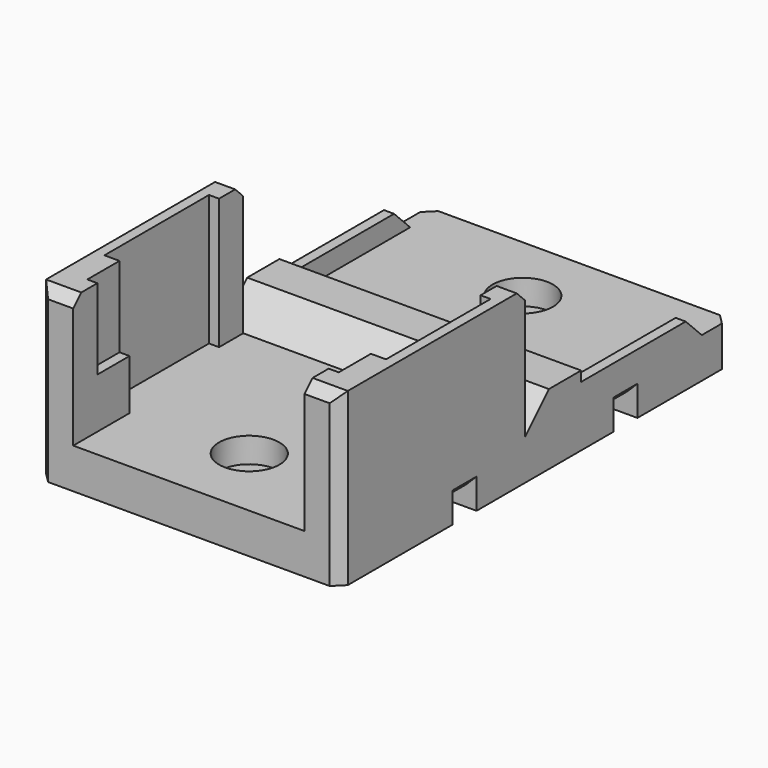
from build123d import *

# Parameters (mm, degrees)
BOX012_W          = 36
BOX012_H          = 3
BOX012_DEPTH      = 2
BOX011_W          = 36
BOX011_H          = 3
BOX011_DEPTH      = 2
BOX015_W          = 1
BOX015_H          = 15
BOX015_DEPTH      = 6
CHAMFER003_SIZE   = 2
BOX013_W          = 30
BOX013_H          = 7
BOX013_DEPTH      = 7
CHAMFER002_SIZE   = 3
CYLINDER004_R     = 3
CYLINDER004_DEPTH = 2.5
CYLINDER006_R     = 1.65
CYLINDER006_DEPTH = 10
CYLINDER007_R     = 1.65
CYLINDER007_DEPTH = 10
CYLINDER005_R     = 3
CYLINDER005_DEPTH = 2.5
BOX_W             = 30
BOX_H             = 48.5
BOX_DEPTH         = 4
BOX006_W          = 1
BOX006_H          = 13
BOX006_DEPTH      = 17
BOX008_W          = 2
BOX008_H          = 3
BOX008_DEPTH      = 17
BOX010_W          = 1
BOX010_H          = 4
BOX010_DEPTH      = 8
BOX004_W          = 3.5
BOX004_H          = 7
BOX004_DEPTH      = 17
BOX005_W          = 1
BOX005_H          = 13
BOX005_DEPTH      = 17
BOX007_W          = 2
BOX007_H          = 3
BOX007_DEPTH      = 17
BOX009_W          = 1
BOX009_H          = 4
BOX009_DEPTH      = 8
BOX003_W          = 3.5
BOX003_H          = 7
BOX003_DEPTH      = 17
BOX014_W          = 1
BOX014_H          = 15
BOX014_DEPTH      = 6
CHAMFER004_SIZE   = 2
CHAMFER005_SIZE   = 1
CHAMFER006_SIZE   = 1


with BuildPart() as cube012:
    # Box012 → Box012 (new body)
    with BuildSketch(Plane(origin=(-3, 9.5, 0), x_dir=(1, 0, 0), z_dir=(0, 0, 1))):
        with Locations((18, 1.5)):
            Rectangle(BOX012_W, BOX012_H)
    extrude(amount=BOX012_DEPTH)


with BuildPart() as fusion003:
    # Box011 → Box011 (new body)
    with BuildSketch(Plane(origin=(-3, -10.5, 0), x_dir=(1, 0, 0), z_dir=(0, 0, 1))):
        with Locations((18, 1.5)):
            Rectangle(BOX011_W, BOX011_H)
    extrude(amount=BOX011_DEPTH)

    # Fusion003: union Cube012
    add(cube012.part)


with BuildPart() as chamfer003:
    # Box015 → Box015 (new body)
    with BuildSketch(Plane(origin=(29, 5.5, 0), x_dir=(1, 0, 0), z_dir=(0, 0, 1))):
        with Locations((0.5, 7.5)):
            Rectangle(BOX015_W, BOX015_H)
    extrude(amount=BOX015_DEPTH)

    # Chamfer003
    chamfer003_edges = [chamfer003.edges().sort_by_distance(p)[0] for p in [
        (29.5, 20.5, 6),
    ]]
    chamfer(chamfer003_edges, length=CHAMFER003_SIZE)


with BuildPart() as chamfer002:
    # Box013 → Box013 (new body)
    with BuildSketch(Plane(origin=(0, -1.5, 0), x_dir=(1, 0, 0), z_dir=(0, 0, 1))):
        with Locations((15, 3.5)):
            Rectangle(BOX013_W, BOX013_H)
    extrude(amount=BOX013_DEPTH)

    # Chamfer002
    chamfer002_edges = [chamfer002.edges().sort_by_distance(p)[0] for p in [
        (15, -1.5, 7),
    ]]
    chamfer(chamfer002_edges, length=CHAMFER002_SIZE)


with BuildPart() as cylinder004:
    # Cylinder004 → Cylinder004 (new body)
    with BuildSketch(Plane(origin=(15, 17, 1.5), x_dir=(1, 0, 0), z_dir=(0, 0, 1))):
        Circle(CYLINDER004_R)
    extrude(amount=CYLINDER004_DEPTH)


with BuildPart() as cylinder006:
    # Cylinder006 → Cylinder006 (new body)
    with BuildSketch(Plane(origin=(15, -17, 0), x_dir=(1, 0, 0), z_dir=(0, 0, 1))):
        Circle(CYLINDER006_R)
    extrude(amount=CYLINDER006_DEPTH)


with BuildPart() as cylinder007:
    # Cylinder007 → Cylinder007 (new body)
    with BuildSketch(Plane(origin=(15, 17, 0), x_dir=(1, 0, 0), z_dir=(0, 0, 1))):
        Circle(CYLINDER007_R)
    extrude(amount=CYLINDER007_DEPTH)


with BuildPart() as fusion002:
    # Cylinder005 → Cylinder005 (new body)
    with BuildSketch(Plane(origin=(15, -17, 1.5), x_dir=(1, 0, 0), z_dir=(0, 0, 1))):
        Circle(CYLINDER005_R)
    extrude(amount=CYLINDER005_DEPTH)

    # Fusion002: union Cylinder004, Cylinder006, Cylinder007
    add(cylinder004.part)
    add(cylinder006.part)
    add(cylinder007.part)


with BuildPart() as cut008:
    # Box → Box (new body)
    with BuildSketch(Plane(origin=(0, -24.5, 0), x_dir=(1, 0, 0), z_dir=(0, 0, 1))):
        with Locations((15, 24.25)):
            Rectangle(BOX_W, BOX_H)
    extrude(amount=BOX_DEPTH)

    # Cut008: cut Fusion002
    add(fusion002.part, mode=Mode.SUBTRACT)


with BuildPart() as cube006:
    # Box006 → Box006 (new body)
    with BuildSketch(Plane(origin=(29, -17.5, 0), x_dir=(1, 0, 0), z_dir=(0, 0, 1))):
        with Locations((0.5, 6.5)):
            Rectangle(BOX006_W, BOX006_H)
    extrude(amount=BOX006_DEPTH)


with BuildPart() as cube008:
    # Box008 → Box008 (new body)
    with BuildSketch(Plane(origin=(28, -4.5, 0), x_dir=(1, 0, 0), z_dir=(0, 0, 1))):
        with Locations((1, 1.5)):
            Rectangle(BOX008_W, BOX008_H)
    extrude(amount=BOX008_DEPTH)


with BuildPart() as cube010:
    # Box010 → Box010 (new body)
    with BuildSketch(Plane(origin=(26.5, -21.5, 9), x_dir=(1, 0, 0), z_dir=(0, 0, 1))):
        with Locations((0.5, 2)):
            Rectangle(BOX010_W, BOX010_H)
    extrude(amount=BOX010_DEPTH)


with BuildPart() as fusion001:
    # Box004 → Box004 (new body)
    with BuildSketch(Plane(origin=(26.5, -24.5, 0), x_dir=(1, 0, 0), z_dir=(0, 0, 1))):
        with Locations((1.75, 3.5)):
            Rectangle(BOX004_W, BOX004_H)
    extrude(amount=BOX004_DEPTH)

    # Cut006: cut Cube010
    add(cube010.part, mode=Mode.SUBTRACT)

    # Fusion001: union Cube006, Cube008
    add(cube006.part)
    add(cube008.part)


with BuildPart() as cube005:
    # Box005 → Box005 (new body)
    with BuildSketch(Plane(origin=(0, -17.5, 0), x_dir=(1, 0, 0), z_dir=(0, 0, 1))):
        with Locations((0.5, 6.5)):
            Rectangle(BOX005_W, BOX005_H)
    extrude(amount=BOX005_DEPTH)


with BuildPart() as cube007:
    # Box007 → Box007 (new body)
    with BuildSketch(Plane(origin=(0, -4.5, 0), x_dir=(1, 0, 0), z_dir=(0, 0, 1))):
        with Locations((1, 1.5)):
            Rectangle(BOX007_W, BOX007_H)
    extrude(amount=BOX007_DEPTH)


with BuildPart() as cube009:
    # Box009 → Box009 (new body)
    with BuildSketch(Plane(origin=(2.5, -21.5, 9), x_dir=(1, 0, 0), z_dir=(0, 0, 1))):
        with Locations((0.5, 2)):
            Rectangle(BOX009_W, BOX009_H)
    extrude(amount=BOX009_DEPTH)


with BuildPart() as fusion:
    # Box003 → Box003 (new body)
    with BuildSketch(Plane(origin=(0, -24.5, 0), x_dir=(1, 0, 0), z_dir=(0, 0, 1))):
        with Locations((1.75, 3.5)):
            Rectangle(BOX003_W, BOX003_H)
    extrude(amount=BOX003_DEPTH)

    # Cut007: cut Cube009
    add(cube009.part, mode=Mode.SUBTRACT)

    # Fusion: union Cube005, Cube007
    add(cube005.part)
    add(cube007.part)


with BuildPart() as chamfer006:
    # Box014 → Box014 (new body)
    with BuildSketch(Plane(origin=(0, 5.5, 0), x_dir=(1, 0, 0), z_dir=(0, 0, 1))):
        with Locations((0.5, 7.5)):
            Rectangle(BOX014_W, BOX014_H)
    extrude(amount=BOX014_DEPTH)

    # Chamfer004
    chamfer004_edges = [chamfer006.edges().sort_by_distance(p)[0] for p in [
        (0.5, 20.5, 6),
    ]]
    chamfer(chamfer004_edges, length=CHAMFER004_SIZE)

    # Fusion004: union Chamfer003, Chamfer002, Cut008, Fusion001, Fusion
    add(chamfer003.part)
    add(chamfer002.part)
    add(cut008.part)
    add(fusion001.part)
    add(fusion.part)

    # Cut009: cut Fusion003
    add(fusion003.part, mode=Mode.SUBTRACT)

    # Chamfer005
    chamfer005_edges = [chamfer006.edges().sort_by_distance(p)[0] for p in [
        (0, 11, 2),
        (30, 11, 2),
        (0, -9, 2),
        (30, -9, 2),
    ]]
    chamfer(chamfer005_edges, length=CHAMFER005_SIZE)

    # Chamfer006
    chamfer006_edges = [chamfer006.edges().sort_by_distance(p)[0] for p in [
        (0, 24, 2),
        (30, 24, 2),
        (1, -1.5, 17),
        (29, -1.5, 17),
        (0, -24.5, 2),
        (0, -24.5, 10.5),
        (30, -24.5, 2),
        (28.25, -24.5, 17),
        (30, -24.5, 10.5),
        (1.75, -24.5, 17),
    ]]
    chamfer(chamfer006_edges, length=CHAMFER006_SIZE)


solid = chamfer006.part
